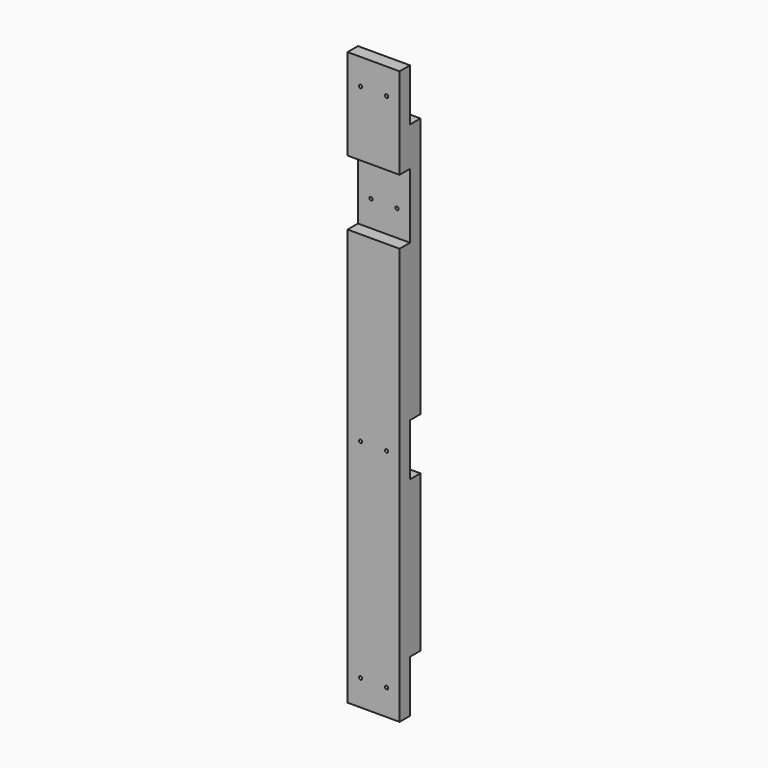
from build123d import *

# Parameters (mm, degrees)
F0_W     = 101.6
F0_H     = 50.8
F1_DEPTH = 1117.6
F2_W     = 25.4
F2_H     = 101.6
F2_H_2   = 127
F3_DEPTH = 101.601
F4_R     = 3.175
F5_DEPTH = 50.801


with BuildPart() as f1:
    # F0 (on Top) → F1 (new body)
    with BuildSketch(Plane.XY):
        Rectangle(F0_W, F0_H)
    extrude(amount=F1_DEPTH)

    # F2 (on face) → F3 (cut, through all)
    with BuildSketch(Plane.YZ.offset(50.8)):
        with Locations((12.7, 457.2)):
            Rectangle(F2_W, F2_H)
        with Locations((12.7, 50.8)):
            Rectangle(F2_W, F2_H)
        with Locations((12.7, 1066.8)):
            Rectangle(F2_W, F2_H)
        with Locations((-12.7, 876.3)):
            Rectangle(F2_W, F2_H_2)
    extrude(amount=-F3_DEPTH, mode=Mode.SUBTRACT)

    # F4 (on face) → F5 (cut, through all)
    with BuildSketch(Plane.XZ.offset(25.4)):
        with Locations((-25.4, 1066.8)):
            Circle(F4_R)
        with Locations((-25.4, 457.2)):
            Circle(F4_R)
        with Locations((-25.4, 50.8)):
            Circle(F4_R)
        with Locations((25.4, 1066.8)):
            Circle(F4_R)
        with Locations((25.4, 457.2)):
            Circle(F4_R)
        with Locations((25.4, 50.8)):
            Circle(F4_R)
        with Locations((-25.4, 863.6)):
            Circle(F4_R)
        with Locations((25.4, 863.6)):
            Circle(F4_R)
    extrude(amount=-F5_DEPTH, mode=Mode.SUBTRACT)


solid = f1.part
